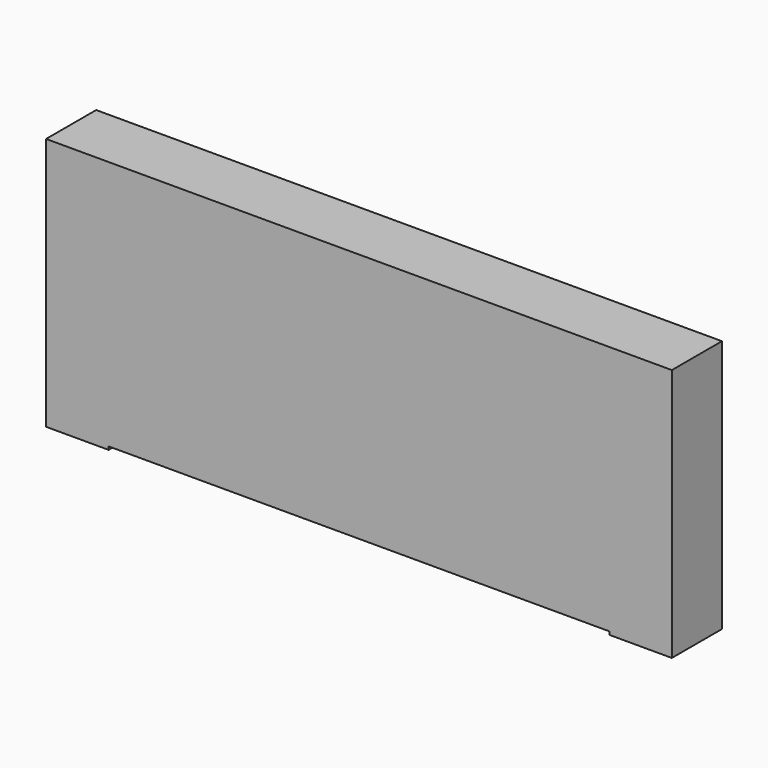
from build123d import *

# Parameters (mm, degrees)
F0_W     = 100
F0_H     = 40
F1_DEPTH = 10
F2_W     = 10
F2_H     = 10
F3_DEPTH = 0.5


with BuildPart() as f1:
    # F0 (on Front) → F1 (new body)
    with BuildSketch(Plane.XZ):
        with Locations((0, 20)):
            Rectangle(F0_W, F0_H)
    extrude(amount=F1_DEPTH)

    # F2 (on face) → F3 (join)
    with BuildSketch(Plane(origin=(0, 0, 0), x_dir=(1, 0, 0), z_dir=(0, 0, -1))):
        with Locations((45, 5)):
            Rectangle(F2_W, F2_H)
        with Locations((-45, 5)):
            Rectangle(F2_W, F2_H)
    extrude(amount=F3_DEPTH)


solid = f1.part
